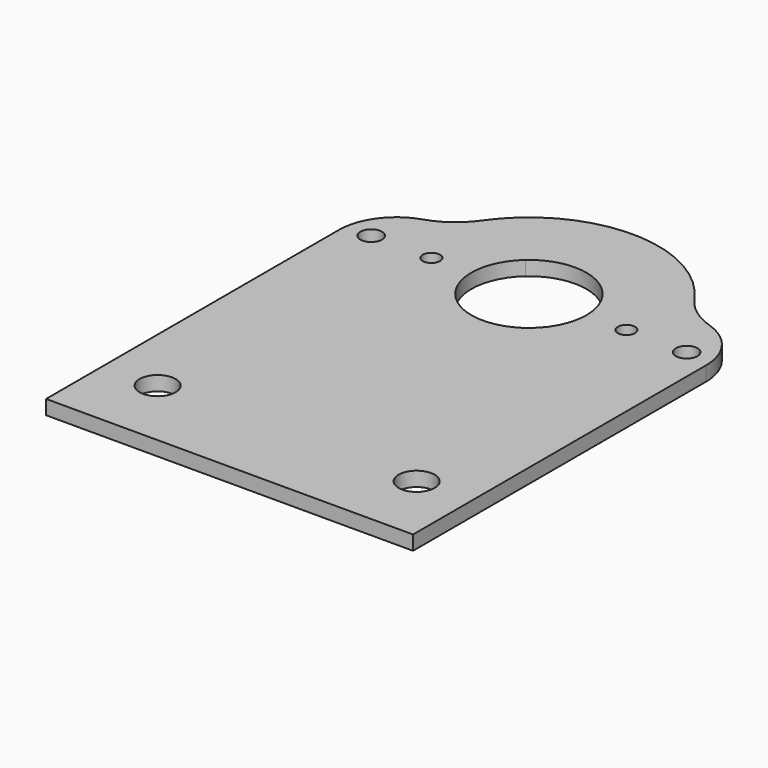
from build123d import *

# Parameters (mm, degrees)
F0_R     = 1.2
F0_R_2   = 2.5
F0_R_3   = 1.5
F1_DEPTH = 2
F2_R     = 10
F3_R     = 8


with BuildPart() as f1:
    # F0 (on Top) → F1 (new body)
    with BuildSketch(Plane.XY):
        with BuildLine():
            ThreePointArc((-5.2915026221, 6), (0, 8), (5.2915026221, 6))
            Line((5.2915026221, 6), (16.9705627485, 6))
            ThreePointArc((16.9705627485, 6), (0, 18), (-16.9705627485, 6))
            Line((-16.9705627485, 6), (-5.2915026221, 6))
        make_face()
        with BuildLine():
            ThreePointArc((-5.2915026221, 6), (0, 8), (5.2915026221, 6))
            Line((5.2915026221, 6), (16.9705627485, 6))
            ThreePointArc((16.9705627485, 6), (0, 18), (-16.9705627485, 6))
            Line((-16.9705627485, 6), (-5.2915026221, 6))
        make_face()
        with BuildLine():
            ThreePointArc((5.2915026221, 6), (7.2915026221, 3.2915026221), (8, 0))
            ThreePointArc((8, 0), (-3.2915026221, -7.2915026221), (-5.2915026221, 6))
            Line((-5.2915026221, 6), (-16.9705627485, 6))
            ThreePointArc((-16.9705627485, 6), (-3.0438356171, -17.7407740738), (18, 0))
            ThreePointArc((18, 0), (17.7407740738, 3.0438356171), (16.9705627485, 6))
            Line((16.9705627485, 6), (5.2915026221, 6))
        make_face()
        with Locations((-13.55, 0)):
            Circle(F0_R, mode=Mode.SUBTRACT)
        with Locations((13.55, 0)):
            Circle(F0_R, mode=Mode.SUBTRACT)
        with BuildLine():
            Line((25.5, 6), (16.9705627485, 6))
            ThreePointArc((16.9705627485, 6), (17.7407740738, 3.0438356171), (18, 0))
            ThreePointArc((18, 0), (-3.0438356171, -17.7407740738), (-16.9705627485, 6))
            Line((-16.9705627485, 6), (-25.5, 6))
            Line((-25.5, 6), (-25.5, -52))
            Line((-25.5, -52), (25.5, -52))
            Line((25.5, -52), (25.5, 6))
        make_face()
        with Locations((-18, -42)):
            Circle(F0_R_2, mode=Mode.SUBTRACT)
        with Locations((18, -42)):
            Circle(F0_R_2, mode=Mode.SUBTRACT)
        with Locations((-21.92, 0)):
            Circle(F0_R_3, mode=Mode.SUBTRACT)
        with Locations((21.92, 0)):
            Circle(F0_R_3, mode=Mode.SUBTRACT)
        with BuildLine():
            ThreePointArc((5.2915026221, 6), (7.2915026221, 3.2915026221), (8, 0))
            ThreePointArc((8, 0), (-3.2915026221, -7.2915026221), (-5.2915026221, 6))
            Line((-5.2915026221, 6), (-16.9705627485, 6))
            ThreePointArc((-16.9705627485, 6), (-3.0438356171, -17.7407740738), (18, 0))
            ThreePointArc((18, 0), (17.7407740738, 3.0438356171), (16.9705627485, 6))
            Line((16.9705627485, 6), (5.2915026221, 6))
        make_face()
        with Locations((-13.55, 0)):
            Circle(F0_R, mode=Mode.SUBTRACT)
        with Locations((13.55, 0)):
            Circle(F0_R, mode=Mode.SUBTRACT)
    extrude(amount=F1_DEPTH)

    # F2
    f2_edges = [f1.edges().sort_by_distance(p)[0] for p in [
        (-16.970563, 6, 1),
        (16.970563, 6, 1),
    ]]
    fillet(f2_edges, radius=F2_R)

    # F3
    f3_edges = [f1.edges().sort_by_distance(p)[0] for p in [
        (25.5, 6, 1),
        (-25.5, 6, 1),
    ]]
    fillet(f3_edges, radius=F3_R)


solid = f1.part
